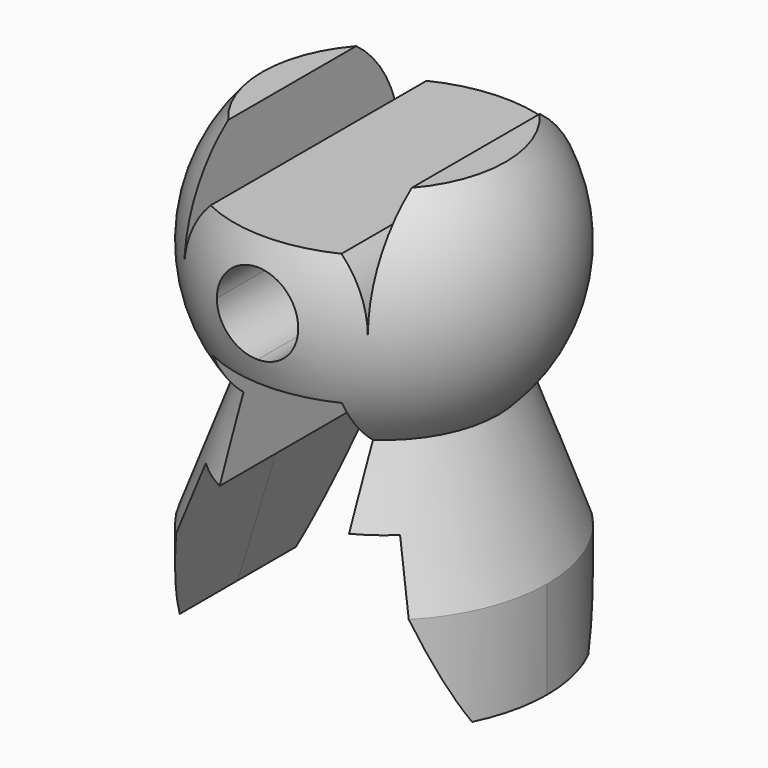
from build123d import *

# Parameters (mm, degrees)
F2_W     = 27.8463792056
F2_H     = 51.1190928519
F3_DEPTH = 147.9697972536


with BuildPart() as f1:
    # F0 (on Front) → F1 (revolve)
    with BuildSketch(Plane.XZ):
        with BuildLine():
            Line((52.3763655862, 46.7439527708), (0, 46.7439527708))
            Line((0, 46.7439527708), (0, 0))
            Line((0, 0), (0, -49.9445816116))
            Line((0, -49.9445816116), (49.3337568029, -49.9445816116))
            ThreePointArc((49.3337568029, -49.9445816116), (70.1669824017, -2.2080247499), (52.3763655862, 46.7439527708))
        make_face()
        with BuildLine():
            Line((0, -49.9445816116), (0, -70.2017150264))
            ThreePointArc((0, -70.2017150264), (26.6653849329, -64.9402651598), (49.3337568029, -49.9445816116))
            Line((49.3337568029, -49.9445816116), (0, -49.9445816116))
        make_face()
        with BuildLine():
            ThreePointArc((49.3337568029, -49.9445816116), (26.6653849329, -64.9402651598), (0, -70.2017150264))
            Line((0, -70.2017150264), (0, -71.7695653439))
            Line((0, -71.7695653439), (0, -80.2722424269))
            Line((0, -80.2722424269), (41.7819023132, -80.2722424269))
            Line((41.7819023132, -80.2722424269), (50.0332736718, -107.247158885))
            Line((50.0332736718, -107.247158885), (52.902700462, -107.247158885))
            Line((52.902700462, -107.247158885), (70.2017150264, -107.247158885))
            Line((70.2017150264, -107.247158885), (49.3337568029, -49.9445816116))
        make_face()
        Polygon((70.2017150264, -119.4123029709), (70.2017150264, -107.247158885), (52.902700462, -107.247158885), (50.0332736718, -107.247158885), (62.8687366843, -149.2081284523), (70.2017150264, -149.2081284523), align=None)
        with BuildLine():
            ThreePointArc((49.3337568029, -49.9445816116), (26.6653849329, -64.9402651598), (0, -70.2017150264))
            Line((0, -70.2017150264), (0, -71.7695653439))
            Line((0, -71.7695653439), (0, -80.2722424269))
            Line((0, -80.2722424269), (41.7819023132, -80.2722424269))
            Line((41.7819023132, -80.2722424269), (50.0332736718, -107.247158885))
            Line((50.0332736718, -107.247158885), (52.902700462, -107.247158885))
            Line((52.902700462, -107.247158885), (70.2017150264, -107.247158885))
            Line((70.2017150264, -107.247158885), (49.3337568029, -49.9445816116))
        make_face()
    revolve(axis=Axis((0, 0, -35.8847826719), (0, 0, 1)))

    # F2 (on Front) → F3 (cut, symmetric)
    with BuildSketch(Plane.XZ):
        with BuildLine():
            ThreePointArc((28.153580195, 27.6835679985), (36.5419369131, 14.9562983912), (39.484224887, 0))
            Line((39.484224887, 0), (39.484224887, 52.965708077))
            Line((39.484224887, 52.965708077), (-39.484224887, 52.965708077))
            Line((-39.484224887, 52.965708077), (-39.484224887, 0))
            ThreePointArc((-39.484224887, 0), (-36.5419369131, 14.9562983912), (-28.153580195, 27.6835679985))
            Line((-28.153580195, 27.6835679985), (28.153580195, 27.6835679985))
        make_face()
        with BuildLine():
            Line((0, 0), (17.4964021464, 0))
            ThreePointArc((17.4964021464, 0), (0, 17.4964021464), (-17.4964021464, 0))
            Line((-17.4964021464, 0), (0, 0))
        make_face()
        with BuildLine():
            Line((0, 0), (-17.4964021464, 0))
            ThreePointArc((-17.4964021464, 0), (-12.3718246041, -12.3718246041), (0, -17.4964021464))
            Line((0, -17.4964021464), (0, 0))
        make_face()
        with BuildLine():
            ThreePointArc((0, -17.4964021464), (12.3718246041, -12.3718246041), (17.4964021464, 0))
            Line((17.4964021464, 0), (0, 0))
            Line((0, 0), (0, -17.4964021464))
        make_face()
        Polygon((27.8463792056, -80.2722424269), (0, -80.2722424269), (0, -149.2081284523), (62.8687366843, -149.2081284523), (41.7819023132, -80.2722424269), align=None)
        Polygon((0, -149.2081284523), (0, -80.2722424269), (-27.8463792056, -80.2722424269), (-41.7819023132, -80.2722424269), (-62.8687366843, -149.2081284523), align=None)
        with Locations((-13.9231896028, -54.7126960009)):
            Rectangle(F2_W, F2_H)
        with Locations((13.9231896028, -54.7126960009)):
            Rectangle(F2_W, F2_H)
    extrude(amount=F3_DEPTH, both=True, mode=Mode.SUBTRACT)


solid = f1.part
